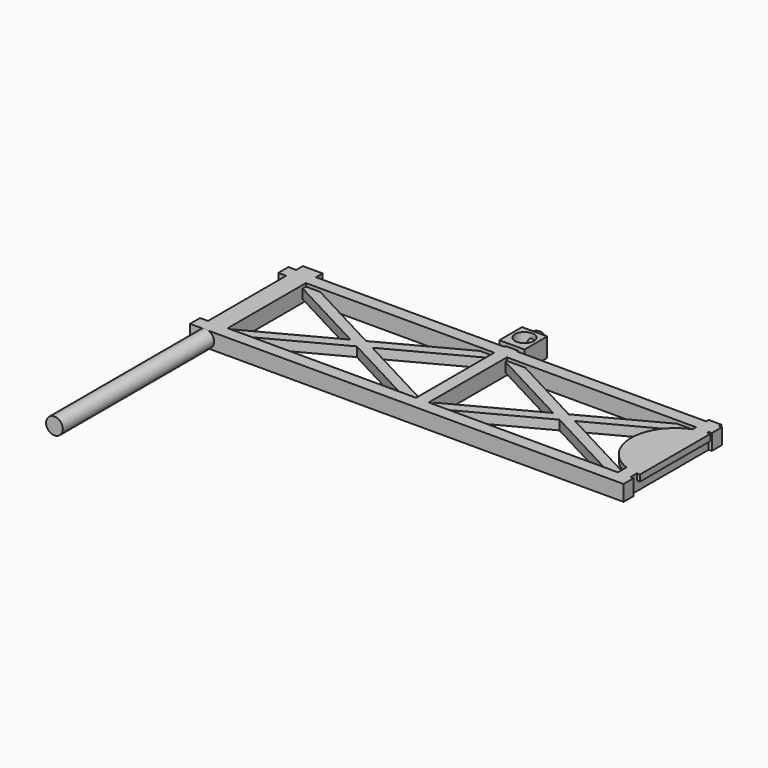
from build123d import *

# Parameters (mm, degrees)
SKETCH_W               = 1.25
SKETCH_H               = 8.33
PAD_DEPTH              = 1
BOX_W                  = 27.5
BOX_H                  = 0.8
BOX_DEPTH              = 1
LINEARPATTERN_COUNT    = 2
LINEARPATTERN_PITCH    = 7
BOX001_W               = 0.8
BOX001_H               = 8
BOX001_DEPTH           = 1
BOX002_W               = 0.8
BOX002_H               = 8
BOX002_DEPTH           = 1
BOX003_W               = 0.65
BOX003_H               = 14
BOX003_DEPTH           = 0.6
LINEARPATTERN001_COUNT = 2
LINEARPATTERN001_PITCH = 12.5
BOX004_W               = 0.65
BOX004_H               = 14
BOX004_DEPTH           = 0.6
LINEARPATTERN002_COUNT = 2
LINEARPATTERN002_PITCH = 13
CYLINDER_R             = 0.53
CYLINDER_DEPTH         = 12
CYLINDER001_R          = 2.8
CYLINDER001_DEPTH      = 0.4
BOX005_W               = 1.6
BOX005_H               = 1.8
BOX005_DEPTH           = 1.2
CYLINDER002_R          = 0.6
CYLINDER002_DEPTH      = 2
BOX006_W               = 4
BOX006_H               = 6
BOX006_DEPTH           = 1


with BuildPart() as part:
    # Sketch → Pad (new body)
    with BuildSketch(Plane.XY):
        with Locations((0.625, 4.165)):
            Rectangle(SKETCH_W, SKETCH_H)
    extrude(amount=PAD_DEPTH)

    # Box → Box (join)
    with BuildSketch(Plane(origin=(-0.5, 0, 0), x_dir=(1, 0, 0), z_dir=(0, 0, 1))):
        with Locations((13.75, 0.4)):
            Rectangle(BOX_W, BOX_H)
    box = extrude(amount=BOX_DEPTH)

    # LinearPattern: Box ×2
    with Locations(*[(0, i * LINEARPATTERN_PITCH, 0) for i in range(1, LINEARPATTERN_COUNT)]):
        add(box)

    # Box001 → Box001 (join)
    with BuildSketch(Plane(origin=(13.2, 0, 0), x_dir=(1, 0, 0), z_dir=(0, 0, 1))):
        with Locations((0.4, 4)):
            Rectangle(BOX001_W, BOX001_H)
    extrude(amount=BOX001_DEPTH)

    # Box002 → Box002 (join)
    with BuildSketch(Plane(origin=(26, 0, 0), x_dir=(1, 0, 0), z_dir=(0, 0, 1))):
        with Locations((0.4, 4)):
            Rectangle(BOX002_W, BOX002_H)
    extrude(amount=BOX002_DEPTH)

    # Box003 → Box003 (join)
    with BuildSketch(Plane(origin=(1, 1, 0.2), x_dir=(0.469472, -0.882948, 0), z_dir=(0, 0, 1))):
        with Locations((0.325, 7)):
            Rectangle(BOX003_W, BOX003_H)
    box003 = extrude(amount=BOX003_DEPTH)

    # LinearPattern001: Box003 ×2
    with Locations(*[(i * LINEARPATTERN001_PITCH, 0, 0) for i in range(1, LINEARPATTERN001_COUNT)]):
        add(box003)

    # Box004 → Box004 (join)
    with BuildSketch(Plane(origin=(13, 0.5, 0.2), x_dir=(0.469472, 0.882948, 0), z_dir=(0, 0, 1))):
        with Locations((0.325, 7)):
            Rectangle(BOX004_W, BOX004_H)
    box004 = extrude(amount=BOX004_DEPTH)

    # LinearPattern002: Box004 ×2
    with Locations(*[(i * LINEARPATTERN002_PITCH, 0, 0) for i in range(1, LINEARPATTERN002_COUNT)]):
        add(box004)

    # Cylinder → Cylinder (join)
    with BuildSketch(Plane(origin=(0.5, 0, 0.5), x_dir=(1, 0, 0), z_dir=(0, -1, 0))):
        Circle(CYLINDER_R)
    extrude(amount=CYLINDER_DEPTH)

    # Cylinder001 → Cylinder001 (join)
    with BuildSketch(Plane(origin=(27, 4.1, 0.6), x_dir=(1, 0, 0), z_dir=(0, 0, 1))):
        Circle(CYLINDER001_R)
    extrude(amount=CYLINDER001_DEPTH)

    # Box005 → Box005 (join)
    with BuildSketch(Plane(origin=(12.8, 7.9, 0), x_dir=(1, 0, 0), z_dir=(0, 0, 1))):
        with Locations((0.8, 0.9)):
            Rectangle(BOX005_W, BOX005_H)
    extrude(amount=BOX005_DEPTH)

    # Cylinder002 → Cylinder002 (cut)
    with BuildSketch(Plane(origin=(13.6, 8.9, 0.5), x_dir=(1, 0, 0), z_dir=(0, 0, 1))):
        Circle(CYLINDER002_R)
    extrude(amount=CYLINDER002_DEPTH, mode=Mode.SUBTRACT)

    # Box006 → Box006 (cut)
    with BuildSketch(Plane(origin=(27, 1, 0), x_dir=(1, 0, 0), z_dir=(0, 0, 1))):
        with Locations((2, 3)):
            Rectangle(BOX006_W, BOX006_H)
    extrude(amount=BOX006_DEPTH, mode=Mode.SUBTRACT)

    # Sphere → Sphere (revolve)
    with BuildSketch(Plane(origin=(13.55, 9.9, 0.6), x_dir=(1, 0, 0), z_dir=(0, -1, 0))):
        with BuildLine():
            ThreePointArc((0, -0.5), (0.5, 0), (0, 0.5))
            Line((0, 0.5), (0, -0.5))
        make_face()
    revolve(axis=Axis((13.55, 9.9, 0.6), (0, 0, 1)))


solid = part.part
